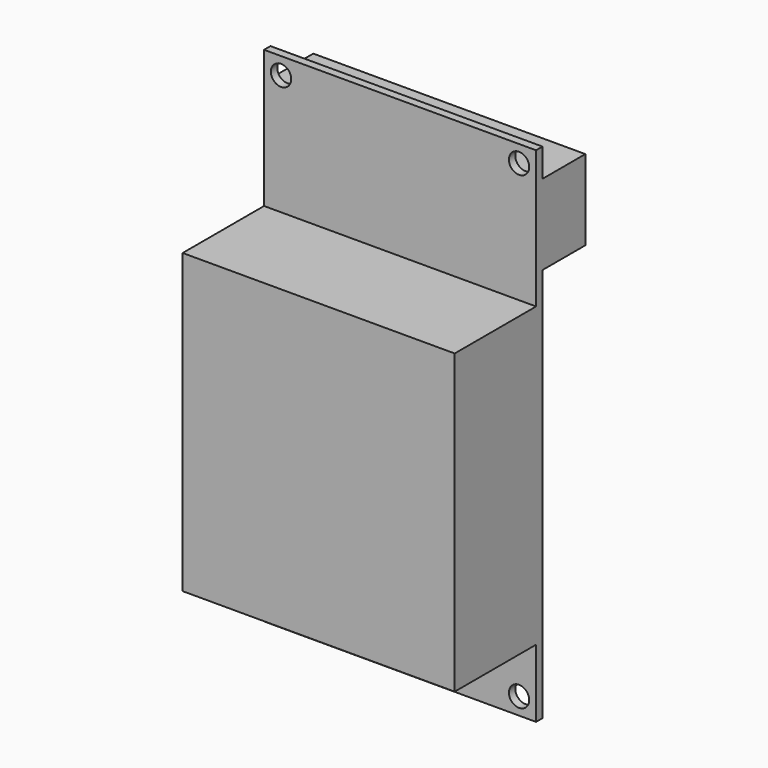
from build123d import *

# Parameters (mm, degrees)
SKETCH021_W  = 50.8
SKETCH021_H  = 93.98
SKETCH021_R  = 1.9
PAD018_DEPTH = 1.5
SKETCH022_W  = 50.8
SKETCH022_H  = 55.6
PAD019_DEPTH = 19
SKETCH023_W  = 50.8
SKETCH023_H  = 15
PAD020_DEPTH = 10


with BuildPart() as part:
    # Sketch021 → Pad018 (new body)
    with BuildSketch(Plane.XZ):
        with Locations((0, 85.19)):
            Rectangle(SKETCH021_W, SKETCH021_H)
        with Locations((-22.225, 129.005)):
            Circle(SKETCH021_R, mode=Mode.SUBTRACT)
        with Locations((22.225, 129.005)):
            Circle(SKETCH021_R, mode=Mode.SUBTRACT)
        with Locations((22.225, 41.375)):
            Circle(SKETCH021_R, mode=Mode.SUBTRACT)
        with Locations((-22.225, 41.375)):
            Circle(SKETCH021_R, mode=Mode.SUBTRACT)
    extrude(amount=PAD018_DEPTH)

    # Sketch022 (on Face10 of Pad018) → Pad019 (join)
    with BuildSketch(Plane.XZ.offset(1.5)):
        with Locations((0, 78.7)):
            Rectangle(SKETCH022_W, SKETCH022_H)
    extrude(amount=PAD019_DEPTH)

    # Sketch023 (on Face4 of Pad019) → Pad020 (join)
    with BuildSketch(Plane(origin=(0, 0, 0), x_dir=(1, 0, 0), z_dir=(0, 1, 0))):
        with Locations((0, -119.38)):
            Rectangle(SKETCH023_W, SKETCH023_H)
    extrude(amount=PAD020_DEPTH)


with BuildPart() as part_1:
    # Body010 placement: moved
    add(part.part.moved(Location((0, 17.7, 0))))


solid = part_1.part
